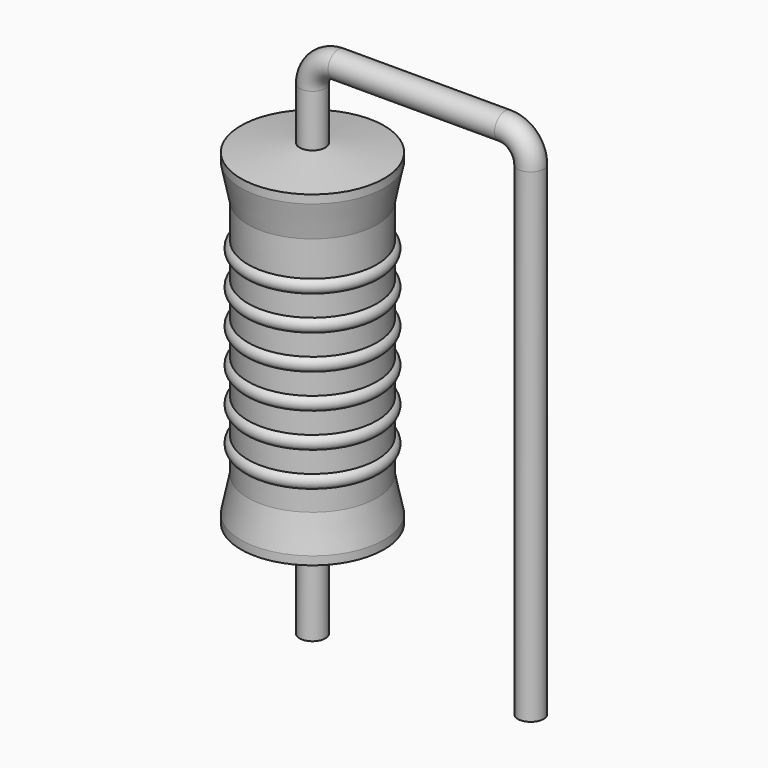
from build123d import *

# Parameters (mm, degrees)
SKETCH_R = 0.45


with BuildPart() as revolution:
    # Sketch002 → Revolution (revolve)
    with BuildSketch(Plane.XZ):
        Polygon((0, 0.1), (0, 12.1), (0.3375, 12.1), (2.5, 11.8), (2.5, 11.5075), (2.25, 10.3), (2.25, 1.9), (2.5, 0.6925), (2.5, 0.4), (0.3375, 0.1), align=None)
    revolve(axis=Axis((0, 0, 0), (0, 0, 1)))


with BuildPart() as sweep_body:
    # Sweep: sweep along a path in Sketch001
    with BuildLine(Plane.XZ) as sweep_path:
        Line((0, -3), (0, 13.9))
        ThreePointArc((0, 13.9), (0.263601, 14.536393), (0.899991, 14.8))
        Line((0.899991, 14.8), (6.72, 14.8))
        ThreePointArc((6.72, 14.8), (7.356396, 14.536396), (7.62, 13.9))
        Line((7.62, 13.9), (7.62, -3))
    # Sketch → Sweep (sweep)
    with BuildSketch(Plane.XY.offset(-2)):
        Circle(SKETCH_R)
    sweep(path=sweep_path.line)


with BuildPart() as obj1:
    # Sketch003 → Revolution001 (revolve)
    with BuildSketch(Plane.XZ):
        with BuildLine():
            Line((2, 9.8), (2, 1.9))
            Line((2, 1.9), (2.15, 1.9))
            Line((2.15, 1.9), (2.15, 2.6))
            ThreePointArc((2.15, 2.6), (2.4, 2.85), (2.15, 3.1))
            Line((2.15, 3.1), (2.15, 3.8))
            ThreePointArc((2.15, 3.8), (2.4, 4.05), (2.15, 4.3))
            Line((2.15, 4.3), (2.15, 5))
            ThreePointArc((2.15, 5), (2.4, 5.25), (2.15, 5.5))
            Line((2.15, 5.5), (2.15, 6.2))
            ThreePointArc((2.15, 6.2), (2.4, 6.45), (2.15, 6.7))
            Line((2.15, 6.7), (2.15, 7.4))
            ThreePointArc((2.15, 7.4), (2.4, 7.65), (2.15, 7.9))
            Line((2.15, 7.9), (2.15, 8.6))
            ThreePointArc((2.15, 8.6), (2.4, 8.85), (2.15, 9.1))
            Line((2.15, 9.8), (2.15, 9.1))
            Line((2, 9.8), (2.15, 9.8))
        make_face()
    revolve(axis=Axis((0, 0, 0), (0, 0, 1)))

    # obj1: union Revolution, Sweep body
    add(revolution.part)
    add(sweep_body.part)


solid = obj1.part
